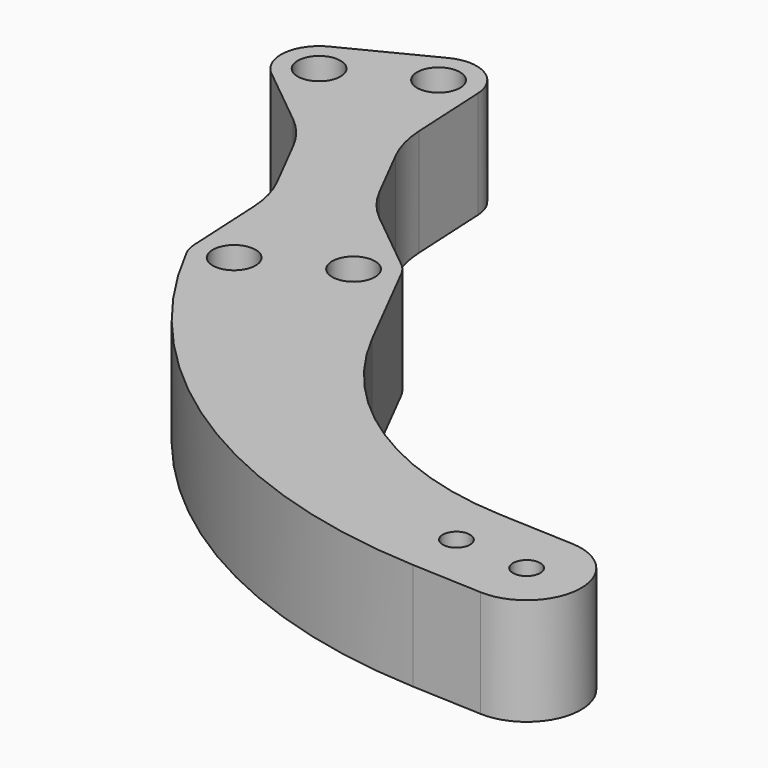
from build123d import *

# Parameters (mm, degrees)
F1_R     = 3.175
F1_R_2   = 5
F2_DEPTH = 25
F3_R     = 25.4


with BuildPart() as f2:
    # F1 (on Top) → F2 (new body)
    with BuildSketch(Plane.XY):
        with BuildLine():
            ThreePointArc((-71.110451, 54.240226), (-77.927858, 45.597173), (-87.921111, 50.213914))
            ThreePointArc((-87.921111, 50.213914), (-42.888123, 0.321655), (21.151845, -20.076632))
            Line((21.151845, -20.076632), (37.572558, -20.804112))
            ThreePointArc((37.572558, -20.804112), (50.822204, -8.678648), (38.69674, 4.570998))
            Line((38.69674, 4.570998), (21.151845, 5.348282))
            ThreePointArc((21.151845, 5.348282), (-14.99621, 16.862317), (-40.41557, 45.024544))
            Line((-40.41557, 45.024544), (-52.261319, 68.33515))
            ThreePointArc((-52.261319, 68.33515), (-51.541425, 66.37893), (-51.296978, 64.308837))
            ThreePointArc((-51.296978, 64.308837), (-68.207732, 60.485871), (-54.585882, 71.211255))
            Line((-54.585882, 71.211255), (-73.106711, 86.233619))
            Line((-73.106711, 86.233619), (-84.613695, 108.877588))
            Line((-84.613695, 108.877588), (-85.829489, 132.69385))
            ThreePointArc((-85.829489, 132.69385), (-85.820821, 132.46737), (-85.817931, 132.240743))
            ThreePointArc((-85.817931, 132.240743), (-99.353216, 124.665405), (-98.731743, 140.163903))
            Line((-98.731743, 140.163903), (-118.545215, 130.095292))
            ThreePointArc((-118.545215, 130.095292), (-109.871118, 129.74747), (-105.631403, 122.172132))
            ThreePointArc((-105.631403, 122.172132), (-110.695938, 114.148879), (-120.117499, 115.269714))
            Line((-120.117499, 115.269714), (-101.596671, 100.24735))
            Line((-101.596671, 100.24735), (-90.089687, 77.603381))
            Line((-90.089687, 77.603381), (-88.873893, 53.787119))
            ThreePointArc((-88.873893, 53.787119), (-80.224578, 63.124836), (-71.110451, 54.240226))
        make_face()
        with Locations((21.151845, -7.364175)):
            Circle(F1_R, mode=Mode.SUBTRACT)
        with Locations((38.134649, -8.116557)):
            Circle(F1_R, mode=Mode.SUBTRACT)
        with BuildLine():
            ThreePointArc((-118.545215, 130.095292), (-122.968456, 124.92762), (-122.442064, 118.14582))
            ThreePointArc((-122.442064, 118.14582), (-121.431028, 116.585524), (-120.117499, 115.269714))
            ThreePointArc((-120.117499, 115.269714), (-110.695938, 114.148879), (-105.631403, 122.172132))
            ThreePointArc((-105.631403, 122.172132), (-109.871118, 129.74747), (-118.545215, 130.095292))
        make_face()
        with Locations((-114.518903, 122.172132)):
            Circle(F1_R_2, mode=Mode.SUBTRACT)
        with BuildLine():
            ThreePointArc((-86.78227, 136.267055), (-91.949943, 140.690296), (-98.731743, 140.163903))
            ThreePointArc((-98.731743, 140.163903), (-99.353216, 124.665405), (-85.817931, 132.240743))
            ThreePointArc((-85.817931, 132.240743), (-85.820821, 132.46737), (-85.829489, 132.69385))
            ThreePointArc((-85.829489, 132.69385), (-86.117974, 134.530557), (-86.78227, 136.267055))
        make_face()
        with Locations((-94.705431, 132.240743)):
            Circle(F1_R_2, mode=Mode.SUBTRACT)
        with BuildLine():
            ThreePointArc((-88.873893, 53.787119), (-88.585408, 51.950412), (-87.921111, 50.213914))
            ThreePointArc((-87.921111, 50.213914), (-77.927858, 45.597173), (-71.110451, 54.240226))
            ThreePointArc((-71.110451, 54.240226), (-80.224578, 63.124836), (-88.873893, 53.787119))
        make_face()
        with Locations((-79.997951, 54.240226)):
            Circle(F1_R_2, mode=Mode.SUBTRACT)
        with BuildLine():
            ThreePointArc((-51.296978, 64.308837), (-51.541425, 66.37893), (-52.261319, 68.33515))
            ThreePointArc((-52.261319, 68.33515), (-53.272354, 69.895445), (-54.585882, 71.211255))
            ThreePointArc((-54.585882, 71.211255), (-68.207732, 60.485871), (-51.296978, 64.308837))
        make_face()
        with Locations((-60.184478, 64.308837)):
            Circle(F1_R_2, mode=Mode.SUBTRACT)
    extrude(amount=F2_DEPTH)

    # F3
    f3_edges = [f2.edges().sort_by_distance(p)[0] for p in [
        (-73.106711, 86.233619, 12.5),
        (-84.613695, 108.877588, 12.5),
        (-101.596671, 100.24735, 12.5),
        (-90.089687, 77.603381, 12.5),
    ]]
    fillet(f3_edges, radius=F3_R)


solid = f2.part
